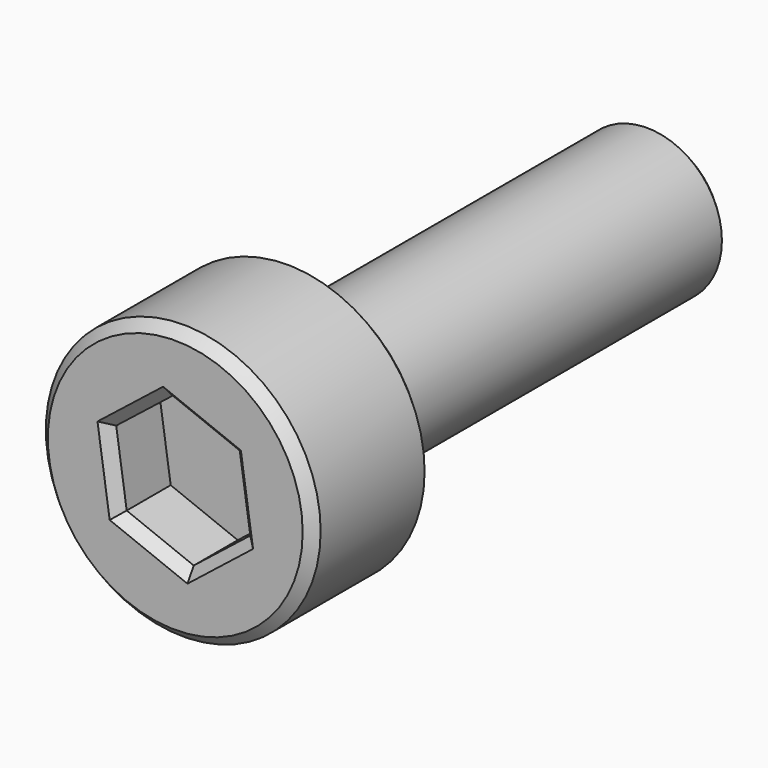
from build123d import *

# Parameters (mm, degrees)
F0_R     = 1.5
F1_DEPTH = 9
F2_R     = 2.75
F3_DEPTH = 3
F5_DEPTH = 1.3
F6_SIZE  = 0.2


with BuildPart() as f1:
    # F0 (on Front) → F1 (new body)
    with BuildSketch(Plane.XZ):
        Circle(F0_R)
    extrude(amount=F1_DEPTH)

    # F2 (on face) → F3 (join)
    with BuildSketch(Plane.XZ.offset(9)):
        Circle(F2_R)
    extrude(amount=F3_DEPTH)

    # F4 (on face) → F5 (cut)
    with BuildSketch(Plane.XZ.offset(12)):
        Polygon((0.2100819211, -1.428005224), (1.3417297613, -0.5320663314), (1.1316478402, 0.8959388926), (-0.2100819211, 1.428005224), (-1.3417297613, 0.5320663314), (-1.1316478402, -0.8959388926), align=None)
    extrude(amount=-F5_DEPTH, mode=Mode.SUBTRACT)

    # F6
    f6_edges = [f1.edges().sort_by_distance(p)[0] for p in [
        (-2.75, -12, 0),
        (-2.75, -9, 0),
        (-1.5, 0, 0),
        (-1.236689, -12, -0.181936),
        (-0.460783, -12, -1.161972),
        (0.775906, -12, -0.980036),
        (1.236689, -12, 0.181936),
        (0.460783, -12, 1.161972),
        (-0.775906, -12, 0.980036),
    ]]
    chamfer(f6_edges, length=F6_SIZE)


solid = f1.part
